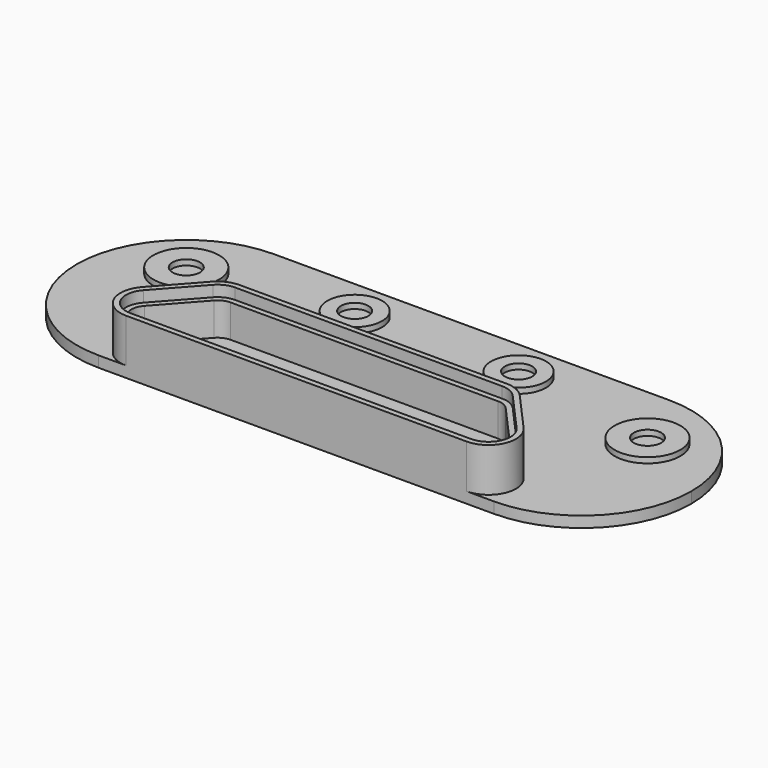
from build123d import *

# Parameters (mm, degrees)
F1_DEPTH = 2
F2_R     = 6
F2_R_2   = 2.5
F2_R_3   = 5
F3_DEPTH = 1
F5_DEPTH = 8
F7_DEPTH = 6


with BuildPart() as f1:
    # F0 (on Top) → F1 (new body)
    with BuildSketch(Plane.XY):
        with BuildLine():
            Line((-36.0815, -20), (36.0815, -20))
            ThreePointArc((36.0815, -20), (50.223636, -14.142136), (56.0815, 0))
            ThreePointArc((56.0815, 0), (50.223636, 14.142136), (36.0815, 20))
            Line((36.0815, 20), (-36.0815, 20))
            ThreePointArc((-36.0815, 20), (-50.223636, 14.142136), (-56.0815, 0))
            ThreePointArc((-56.0815, 0), (-50.223636, -14.142136), (-36.0815, -20))
        make_face()
    extrude(amount=F1_DEPTH)

    # F2 (on face) → F3 (join)
    with BuildSketch(Plane.XY.offset(2)):
        with Locations((-42.0815, 7.5)):
            Circle(F2_R)
        with Locations((-42.0815, 7.5)):
            Circle(F2_R_2, mode=Mode.SUBTRACT)
        with Locations((-14.952, 12)):
            Circle(F2_R_3)
        with Locations((-14.952, 12)):
            Circle(F2_R_2, mode=Mode.SUBTRACT)
        with Locations((42.0815, 7.5)):
            Circle(F2_R)
        with Locations((42.0815, 7.5)):
            Circle(F2_R_2, mode=Mode.SUBTRACT)
        with Locations((14.952, 12)):
            Circle(F2_R_3)
        with Locations((14.952, 12)):
            Circle(F2_R_2, mode=Mode.SUBTRACT)
    extrude(amount=F3_DEPTH)

    # F4 (on face) → F5 (join)
    with BuildSketch(Plane.XY.offset(2)):
        with BuildLine():
            Line((-31.0815, -20), (0, -20))
            Line((0, -20), (31.0815, -20))
            ThreePointArc((31.0815, -20), (35.645717, -17.041549), (34.808729, -11.667169))
            Line((34.808729, -11.667169), (28.102344, -4.167169))
            ThreePointArc((28.102344, -4.167169), (26.416664, -2.935783), (24.375115, -2.5))
            Line((24.375115, -2.5), (0, -2.5))
            Line((0, -2.5), (-24.375115, -2.5))
            ThreePointArc((-24.375115, -2.5), (-26.416664, -2.935783), (-28.102344, -4.167169))
            Line((-28.102344, -4.167169), (-34.808729, -11.667169))
            ThreePointArc((-34.808729, -11.667169), (-35.645717, -17.041549), (-31.0815, -20))
        make_face()
        with BuildLine():
            Line((31.0815, -19), (0, -19))
            Line((0, -19), (-31.0815, -19))
            ThreePointArc((-31.0815, -19), (-34.732874, -16.633239), (-34.063283, -12.333735))
            Line((-34.063283, -12.333735), (-27.356898, -4.833735))
            ThreePointArc((-27.356898, -4.833735), (-26.008354, -3.848626), (-24.375115, -3.5))
            Line((-24.375115, -3.5), (0, -3.5))
            Line((0, -3.5), (24.375115, -3.5))
            ThreePointArc((24.375115, -3.5), (26.008354, -3.848626), (27.356898, -4.833735))
            Line((27.356898, -4.833735), (34.063283, -12.333735))
            ThreePointArc((34.063283, -12.333735), (34.732874, -16.633239), (31.0815, -19))
        make_face(mode=Mode.SUBTRACT)
    extrude(amount=F5_DEPTH)

    # F6 (on face) → F7 (join)
    with BuildSketch(Plane.XY.offset(2)):
        with BuildLine():
            Line((24.375115, -3.5), (-24.375115, -3.5))
            ThreePointArc((-24.375115, -3.5), (-26.008354, -3.848626), (-27.356898, -4.833735))
            Line((-27.356898, -4.833735), (-34.063283, -12.333735))
            ThreePointArc((-34.063283, -12.333735), (-34.732874, -16.633239), (-31.0815, -19))
            Line((-31.0815, -19), (31.0815, -19))
            ThreePointArc((31.0815, -19), (34.732874, -16.633239), (34.063283, -12.333735))
            Line((34.063283, -12.333735), (27.356898, -4.833735))
            ThreePointArc((27.356898, -4.833735), (26.008354, -3.848626), (24.375115, -3.5))
        make_face()
        with BuildLine():
            ThreePointArc((24.375115, -4.5), (25.600044, -4.76147), (26.611452, -5.500301))
            Line((26.611452, -5.500301), (33.317837, -13.000301))
            ThreePointArc((33.317837, -13.000301), (33.82003, -16.224929), (31.0815, -18))
            Line((31.0815, -18), (-31.0815, -18))
            ThreePointArc((-31.0815, -18), (-33.82003, -16.224929), (-33.317837, -13.000301))
            Line((-33.317837, -13.000301), (-26.611452, -5.500301))
            ThreePointArc((-26.611452, -5.500301), (-25.600044, -4.76147), (-24.375115, -4.5))
            Line((-24.375115, -4.5), (24.375115, -4.5))
        make_face(mode=Mode.SUBTRACT)
    extrude(amount=F7_DEPTH)


solid = f1.part
